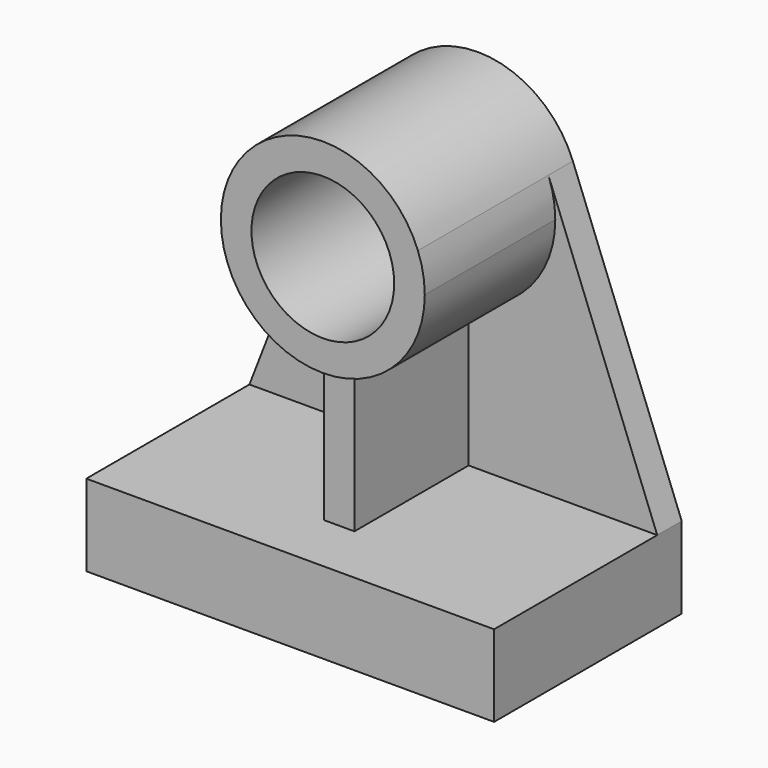
from build123d import *

# Parameters (mm, degrees)
F1_DEPTH = 19.05
F2_R     = 44.45
F3_DEPTH = 101.6
F4_W     = 254
F4_H     = 50.8
F5_DEPTH = 127
F7_DEPTH = 88.9
F8_R     = 50.8
F9_DEPTH = 19.051


with BuildPart() as f1:
    # F0 (on Front) → F1 (new body)
    with BuildSketch(Plane.XZ):
        with BuildLine():
            Line((0, 50.8), (0, 0))
            Line((0, 0), (254, 0))
            Line((254, 0), (254, 50.8))
            Line((254, 50.8), (186.227747, 226.098122))
            ThreePointArc((186.227747, 226.098122), (127, 266.7), (67.772253, 226.098122))
            Line((67.772253, 226.098122), (0, 50.8))
        make_face()
    extrude(amount=F1_DEPTH)

    # F2 (on face) → F3 (join)
    with BuildSketch(Plane.XZ.offset(19.05)):
        with BuildLine():
            ThreePointArc((67.772253, 226.098122), (115.353368, 140.7772), (190.5, 203.2))
            ThreePointArc((190.5, 203.2), (189.4228, 214.846632), (186.227747, 226.098122))
            ThreePointArc((186.227747, 226.098122), (127, 266.7), (67.772253, 226.098122))
        make_face()
        with Locations((127, 203.2)):
            Circle(F2_R, mode=Mode.SUBTRACT)
    extrude(amount=F3_DEPTH)

    # F4 (on face) → F5 (join)
    with BuildSketch(Plane.XZ.offset(19.05)):
        with Locations((127, 25.4)):
            Rectangle(F4_W, F4_H)
    extrude(amount=F5_DEPTH)

    # F6 (on face) → F7 (join)
    with BuildSketch(Plane.XZ.offset(19.05)):
        with BuildLine():
            Line((117.475, 140.418439), (117.475, 50.8))
            Line((117.475, 50.8), (136.525, 50.8))
            Line((136.525, 50.8), (136.525, 140.418439))
            ThreePointArc((136.525, 140.418439), (127, 139.820783), (117.475, 140.418439))
        make_face()
    extrude(amount=F7_DEPTH)

    # F8 (on face) → F9 (cut, through all)
    with BuildSketch(Plane.XZ.offset(19.05)):
        with Locations((127, 203.2)):
            Circle(F8_R)
    extrude(amount=-F9_DEPTH, mode=Mode.SUBTRACT)


solid = f1.part
